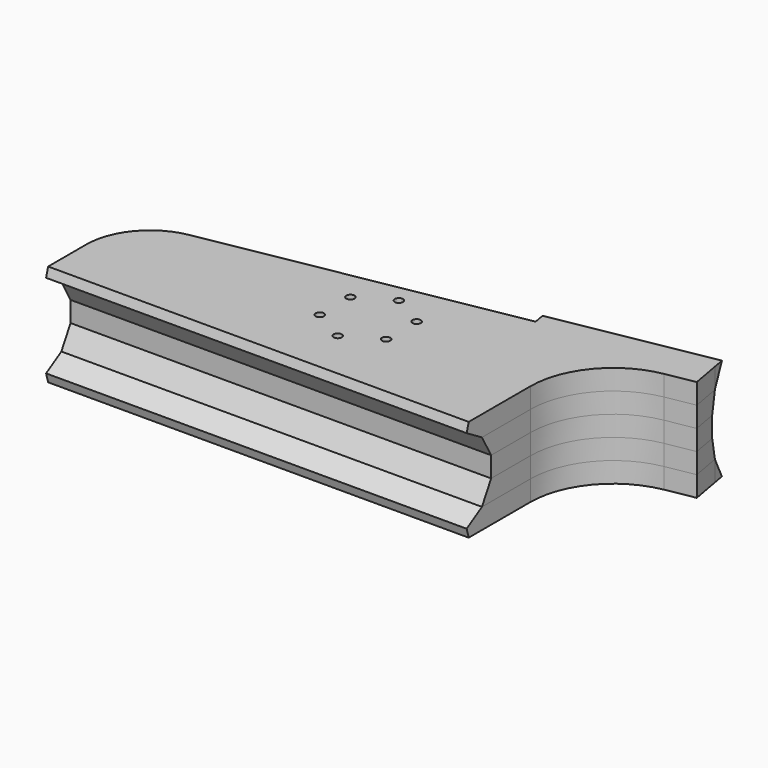
from build123d import *

# Parameters (mm, degrees)
F0_R     = 3.25
F1_DEPTH = 8
F2_DEPTH = 16
F3_DEPTH = 16
F4_DEPTH = 16
F5_DEPTH = 16
F7_DEPTH = 330.001
F9_DEPTH = 422.8005811396


with BuildPart() as f1:
    # F0 (on Top) → F1 (new body, symmetric)
    with BuildSketch(Plane.XY):
        with BuildLine():
            Line((-50, 39.5), (-50, 0))
            Line((-50, 0), (280, 0))
            Line((280, 0), (280, 62.5))
            ThreePointArc((280, 62.5), (295.1419726845, 104.2034424503), (333.513141914, 126.4769653181))
            Line((333.513141914, 126.4769653181), (356.1230230702, 130.5364966649))
            Line((356.1230230702, 130.5364966649), (352, 153.5))
            Line((352, 153.5), (350.4095119573, 162.358349044))
            Line((350.4095119573, 162.358349044), (227.3768863456, 140.2682373402))
            Line((227.3768863456, 140.2682373402), (228.9673743883, 131.4098882962))
            Line((228.9673743883, 131.4098882962), (-8.8360446815, 88.7130502447))
            ThreePointArc((-8.8360446815, 88.7130502447), (-38.3523287042, 71.5795711156), (-50, 39.5))
        make_face()
        with Locations((146, 41)):
            Circle(F0_R, mode=Mode.SUBTRACT)
        with Locations((120.0192378865, 56)):
            Circle(F0_R, mode=Mode.SUBTRACT)
        with Locations((171.9807621135, 56)):
            Circle(F0_R, mode=Mode.SUBTRACT)
        with Locations((120.0192378865, 86)):
            Circle(F0_R, mode=Mode.SUBTRACT)
        with Locations((146, 101)):
            Circle(F0_R, mode=Mode.SUBTRACT)
        with Locations((171.9807621135, 86)):
            Circle(F0_R, mode=Mode.SUBTRACT)
    extrude(amount=F1_DEPTH, both=True)


with BuildPart() as f2:
    # F2 (new): a face of the model
    f2_faces = [f1.part.faces().sort_by_distance(p)[0] for p in [
        (146.4073633707, 63.3701394157, 8),
    ]]
    extrude(f2_faces, amount=F2_DEPTH)


with BuildPart() as f3:
    # F3 (new): a face of the model
    f3_faces = [f2.part.faces().sort_by_distance(p)[0] for p in [
        (146.4073633707, 63.3701394157, 24),
    ]]
    extrude(f3_faces, amount=F3_DEPTH)


with BuildPart() as f4:
    # F4 (new): a face of the model
    f4_faces = [f1.part.faces().sort_by_distance(p)[0] for p in [
        (146.4073633707, 63.3701394157, -8),
    ]]
    extrude(f4_faces, amount=F4_DEPTH)


with BuildPart() as f5:
    # F5 (new): a face of the model
    f5_faces = [f4.part.faces().sort_by_distance(p)[0] for p in [
        (146.4073633707, 63.3701394157, -24),
    ]]
    extrude(f5_faces, amount=F5_DEPTH)


with BuildPart() as f7_tool:
    # F6 (on face) → F7 (new body, through all)
    with BuildSketch(Plane.YZ.offset(280)):
        Polygon((2, -40), (0, -33), (0, -40), align=None)
        Polygon((0, 40), (0, 33), (2, 40), align=None)
        Polygon((24, -8), (24, 8), (15, 24), (0, 33), (0, 24), (0, -33), (15, -24), align=None)
    extrude(amount=-F7_DEPTH)


with BuildPart() as f1_1:
    add(f1.part)

    # F7: cut by f7_tool
    add(f7_tool.part, mode=Mode.SUBTRACT)


with BuildPart() as f2_1:
    add(f2.part)

    # F7: cut by f7_tool
    add(f7_tool.part, mode=Mode.SUBTRACT)


with BuildPart() as f3_1:
    add(f3.part)

    # F7: cut by f7_tool
    add(f7_tool.part, mode=Mode.SUBTRACT)


with BuildPart() as f4_1:
    add(f4.part)

    # F7: cut by f7_tool
    add(f7_tool.part, mode=Mode.SUBTRACT)


with BuildPart() as f5_1:
    add(f5.part)

    # F7: cut by f7_tool
    add(f7_tool.part, mode=Mode.SUBTRACT)


with BuildPart() as f9_tool:
    # F8 (on face) → F9 (new body, through all)
    with BuildSketch(Plane(origin=(367.7066543134, 66.020545588, 0), x_dir=(-0.1767208936, 0.9842610049, 0), z_dir=(0.9842610049, 0.1767208936, 0))):
        Polygon((88.8783096933, 24.1200383753), (85.3783096933, 8), (85.3783096933, -8), (88.8783096933, -24.1200383753), (97.8783096933, -40), (97.8783096933, 40), align=None)
    extrude(amount=-F9_DEPTH)


with BuildPart() as f1_2:
    add(f1_1.part)

    # F9: cut by f9_tool
    add(f9_tool.part, mode=Mode.SUBTRACT)


with BuildPart() as f2_2:
    add(f2_1.part)

    # F9: cut by f9_tool
    add(f9_tool.part, mode=Mode.SUBTRACT)


with BuildPart() as f3_2:
    add(f3_1.part)

    # F9: cut by f9_tool
    add(f9_tool.part, mode=Mode.SUBTRACT)


with BuildPart() as f4_2:
    add(f4_1.part)

    # F9: cut by f9_tool
    add(f9_tool.part, mode=Mode.SUBTRACT)


with BuildPart() as f5_2:
    add(f5_1.part)

    # F9: cut by f9_tool
    add(f9_tool.part, mode=Mode.SUBTRACT)


solid = Compound([f1_2.part, f2_2.part, f3_2.part, f4_2.part, f5_2.part])
